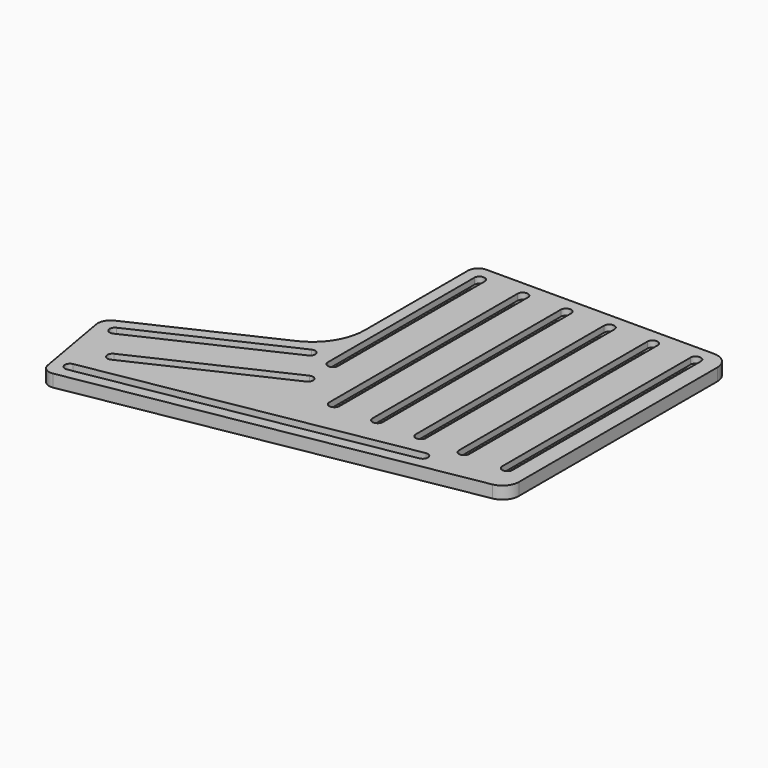
from build123d import *

# Parameters (mm, degrees)
F1_DEPTH = 6
F3_DEPTH = 3


with BuildPart() as f1:
    # F0 (on Top) → F1 (new body)
    with BuildSketch(Plane.XY):
        with BuildLine():
            Line((84.748961, 75.975446), (-25.751039, 75.975446))
            ThreePointArc((-25.751039, 75.975446), (-29.286573, 74.51098), (-30.751039, 70.975446))
            Line((-30.751039, 70.975446), (-30.751039, 8.284529))
            ThreePointArc((-30.751039, 8.284529), (-34.728897, -5.362881), (-45.416535, -14.735688))
            Line((-45.416535, -14.735688), (-109.711543, -44.716943))
            ThreePointArc((-109.711543, -44.716943), (-112.660436, -47.539893), (-113.281446, -51.574663))
            Line((-113.281446, -51.574663), (-106.642219, -89.227591))
            ThreePointArc((-106.642219, -89.227591), (-104.586062, -92.45511), (-100.849939, -93.283389))
            Line((-100.849939, -93.283389), (86.138146, -60.312344))
            ThreePointArc((86.138146, -60.312344), (90.877316, -57.576183), (92.748961, -52.433882))
            Line((92.748961, -52.433882), (92.748961, 67.975446))
            ThreePointArc((92.748961, 67.975446), (90.405815, 73.632301), (84.748961, 75.975446))
        make_face()
        with BuildLine():
            Line((-21.694494, -38.430323), (-90.755147, -70.633835))
            ThreePointArc((-90.755147, -70.633835), (-94.077462, -69.424611), (-92.868238, -66.102296))
            Line((-92.868238, -66.102296), (-23.807585, -33.898784))
            ThreePointArc((-23.807585, -33.898784), (-20.48527, -35.108008), (-21.694494, -38.430323))
        make_face(mode=Mode.SUBTRACT)
        with BuildLine():
            Line((51.23412, -60.882019), (-98.850581, -87.346002))
            ThreePointArc((-98.850581, -87.346002), (-101.746721, -85.318103), (-99.718822, -82.421963))
            Line((-99.718822, -82.421963), (50.36588, -55.957981))
            ThreePointArc((50.36588, -55.957981), (53.262019, -57.98588), (51.23412, -60.882019))
        make_face(mode=Mode.SUBTRACT)
        with BuildLine():
            Line((-34.394494, -21.181494), (-103.455147, -53.385005))
            ThreePointArc((-103.455147, -53.385005), (-106.777462, -52.175782), (-105.568238, -48.853467))
            Line((-105.568238, -48.853467), (-36.507585, -16.649955))
            ThreePointArc((-36.507585, -16.649955), (-33.18527, -17.859179), (-34.394494, -21.181494))
        make_face(mode=Mode.SUBTRACT)
        with BuildLine():
            Line((-25.251039, -20.924554), (-25.251039, 67.975446))
            ThreePointArc((-25.251039, 67.975446), (-22.751039, 70.475446), (-20.251039, 67.975446))
            Line((-20.251039, 67.975446), (-20.251039, -20.924554))
            ThreePointArc((-20.251039, -20.924554), (-22.751039, -23.424554), (-25.251039, -20.924554))
        make_face(mode=Mode.SUBTRACT)
        with BuildLine():
            Line((-4.251039, -46.324554), (-4.251039, 67.975446))
            ThreePointArc((-4.251039, 67.975446), (-1.751039, 70.475446), (0.748961, 67.975446))
            Line((0.748961, 67.975446), (0.748961, -46.324554))
            ThreePointArc((0.748961, -46.324554), (-1.751039, -48.824554), (-4.251039, -46.324554))
        make_face(mode=Mode.SUBTRACT)
        with BuildLine():
            Line((16.748961, -46.324554), (16.748961, 67.975446))
            ThreePointArc((16.748961, 67.975446), (19.248961, 70.475446), (21.748961, 67.975446))
            Line((21.748961, 67.975446), (21.748961, -46.324554))
            ThreePointArc((21.748961, -46.324554), (19.248961, -48.824554), (16.748961, -46.324554))
        make_face(mode=Mode.SUBTRACT)
        with BuildLine():
            Line((37.748961, -46.324554), (37.748961, 67.975446))
            ThreePointArc((37.748961, 67.975446), (40.248961, 70.475446), (42.748961, 67.975446))
            Line((42.748961, 67.975446), (42.748961, -46.324554))
            ThreePointArc((42.748961, -46.324554), (40.248961, -48.824554), (37.748961, -46.324554))
        make_face(mode=Mode.SUBTRACT)
        with BuildLine():
            Line((58.748961, -46.324554), (58.748961, 67.975446))
            ThreePointArc((58.748961, 67.975446), (61.248961, 70.475446), (63.748961, 67.975446))
            Line((63.748961, 67.975446), (63.748961, -46.324554))
            ThreePointArc((63.748961, -46.324554), (61.248961, -48.824554), (58.748961, -46.324554))
        make_face(mode=Mode.SUBTRACT)
        with BuildLine():
            Line((79.748961, -46.324554), (79.748961, 67.975446))
            ThreePointArc((79.748961, 67.975446), (82.248961, 70.475446), (84.748961, 67.975446))
            Line((84.748961, 67.975446), (84.748961, -46.324554))
            ThreePointArc((84.748961, -46.324554), (82.248961, -48.824554), (79.748961, -46.324554))
        make_face(mode=Mode.SUBTRACT)
    extrude(amount=F1_DEPTH)

    # F2 (on face) → F3 (cut)
    with BuildSketch(Plane(origin=(0, 0, 0), x_dir=(1, 0, 0), z_dir=(0, 0, -1))):
        with BuildLine():
            ThreePointArc((87.248961, 46.324554), (82.248961, 51.324554), (77.248961, 46.324554))
            Line((77.248961, 46.324554), (77.248961, -67.975446))
            ThreePointArc((77.248961, -67.975446), (82.248961, -72.975446), (87.248961, -67.975446))
            Line((87.248961, -67.975446), (87.248961, 46.324554))
        make_face()
        with BuildLine():
            ThreePointArc((66.248961, 46.324554), (61.248961, 51.324554), (56.248961, 46.324554))
            Line((56.248961, 46.324554), (56.248961, -67.975446))
            ThreePointArc((56.248961, -67.975446), (61.248961, -72.975446), (66.248961, -67.975446))
            Line((66.248961, -67.975446), (66.248961, 46.324554))
        make_face()
        with BuildLine():
            ThreePointArc((45.248961, 46.324554), (40.248961, 51.324554), (35.248961, 46.324554))
            Line((35.248961, 46.324554), (35.248961, -67.975446))
            ThreePointArc((35.248961, -67.975446), (40.248961, -72.975446), (45.248961, -67.975446))
            Line((45.248961, -67.975446), (45.248961, 46.324554))
        make_face()
        with BuildLine():
            ThreePointArc((24.248961, 46.324554), (19.248961, 51.324554), (14.248961, 46.324554))
            Line((14.248961, 46.324554), (14.248961, -67.975446))
            ThreePointArc((14.248961, -67.975446), (19.248961, -72.975446), (24.248961, -67.975446))
            Line((24.248961, -67.975446), (24.248961, 46.324554))
        make_face()
        with BuildLine():
            ThreePointArc((3.248961, 46.324554), (-1.751039, 51.324554), (-6.751039, 46.324554))
            Line((-6.751039, 46.324554), (-6.751039, -67.975446))
            ThreePointArc((-6.751039, -67.975446), (-1.751039, -72.975446), (3.248961, -67.975446))
            Line((3.248961, -67.975446), (3.248961, 46.324554))
        make_face()
        with BuildLine():
            ThreePointArc((-24.864131, 31.633015), (-18.2195, 34.051462), (-20.637948, 40.696092))
            Line((-20.637948, 40.696092), (-89.698601, 72.899604))
            ThreePointArc((-89.698601, 72.899604), (-96.343232, 70.481156), (-93.924784, 63.836526))
            Line((-93.924784, 63.836526), (-24.864131, 31.633015))
        make_face()
        with BuildLine():
            ThreePointArc((-17.751039, 20.924554), (-22.751039, 25.924554), (-27.751039, 20.924554))
            Line((-27.751039, 20.924554), (-27.751039, -67.975446))
            ThreePointArc((-27.751039, -67.975446), (-22.751039, -72.975446), (-17.751039, -67.975446))
            Line((-17.751039, -67.975446), (-17.751039, 20.924554))
        make_face()
        with BuildLine():
            ThreePointArc((-37.564131, 14.384186), (-30.9195, 16.802633), (-33.337948, 23.447263))
            Line((-33.337948, 23.447263), (-102.398601, 55.650775))
            ThreePointArc((-102.398601, 55.650775), (-109.043232, 53.232327), (-106.624784, 46.587697))
            Line((-106.624784, 46.587697), (-37.564131, 14.384186))
        make_face()
        with BuildLine():
            ThreePointArc((49.931759, 53.495961), (55.724039, 57.551759), (51.668241, 63.344039))
            Line((51.668241, 63.344039), (-98.416461, 89.808021))
            ThreePointArc((-98.416461, 89.808021), (-104.20874, 85.752223), (-100.152942, 79.959944))
            Line((-100.152942, 79.959944), (49.931759, 53.495961))
        make_face()
    extrude(amount=-F3_DEPTH, mode=Mode.SUBTRACT)


solid = f1.part
